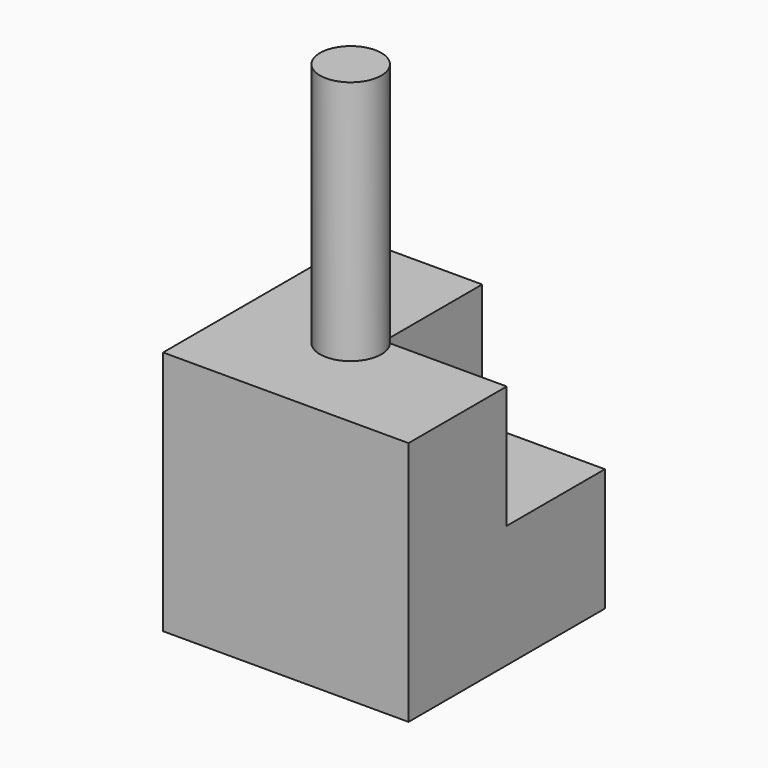
from build123d import *

# Parameters (mm, degrees)
F0_W     = 101.6
F0_H     = 101.6
F1_DEPTH = 101.6
F2_R     = 12.7
F3_DEPTH = 101.6
F4_W     = 50.8
F4_H     = 50.8
F5_DEPTH = 50.8


with BuildPart() as f1:
    # F0 (on Front) → F1 (new body)
    with BuildSketch(Plane.XZ):
        with Locations((-50.8, 50.8)):
            Rectangle(F0_W, F0_H)
    extrude(amount=F1_DEPTH)

    # F2 (on face) → F3 (join)
    with BuildSketch(Plane.XY.offset(101.6)):
        with Locations((-58.379106, -58.563333)):
            Circle(F2_R)
    extrude(amount=F3_DEPTH)

    # F4 (on face) → F5 (cut)
    with BuildSketch(Plane.XY.offset(101.6)):
        with Locations((-25.4, -25.4)):
            Rectangle(F4_W, F4_H)
    extrude(amount=-F5_DEPTH, mode=Mode.SUBTRACT)


solid = f1.part
